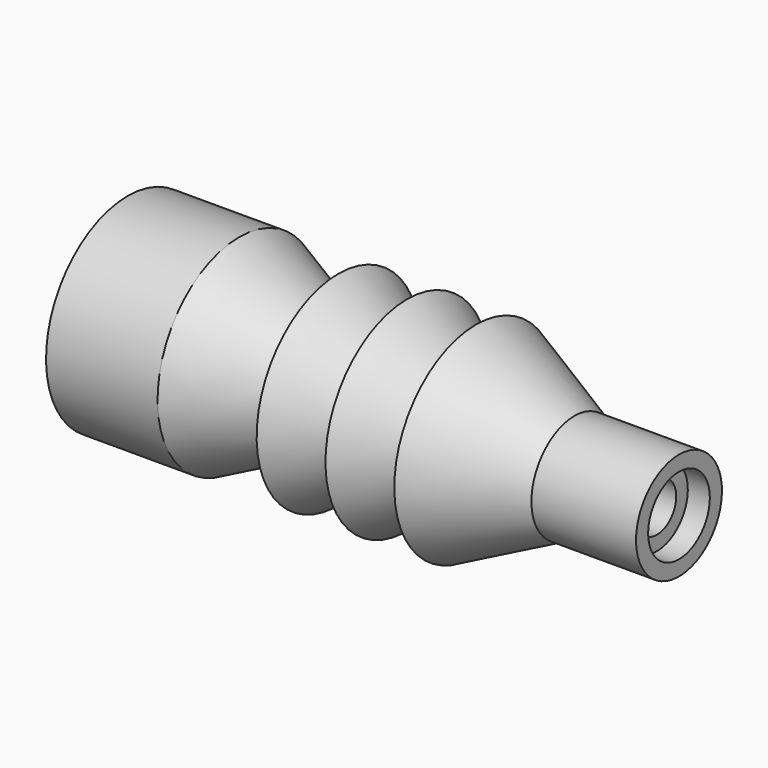
from build123d import *


with BuildPart() as f1:
    # F0 (on Front) → F1 (revolve)
    with BuildSketch(Plane.XZ):
        Polygon((-100.125, 14), (-92.125, 14), (-92.125, 8.75), (92.125, 8.75), (92.125, 14), (100.125, 14), (100.125, 19.5), (62.125, 19.5), (26.375, 37.075), (26.375, 19.5), (1.375, 37.075), (1.375, 19.5), (-23.625, 37.075), (-23.625, 19.5), (-59.625, 37.075), (-100.125, 37.075), align=None)
    revolve(axis=Axis((0, 0, 0), (1, 0, 0)))


solid = f1.part
